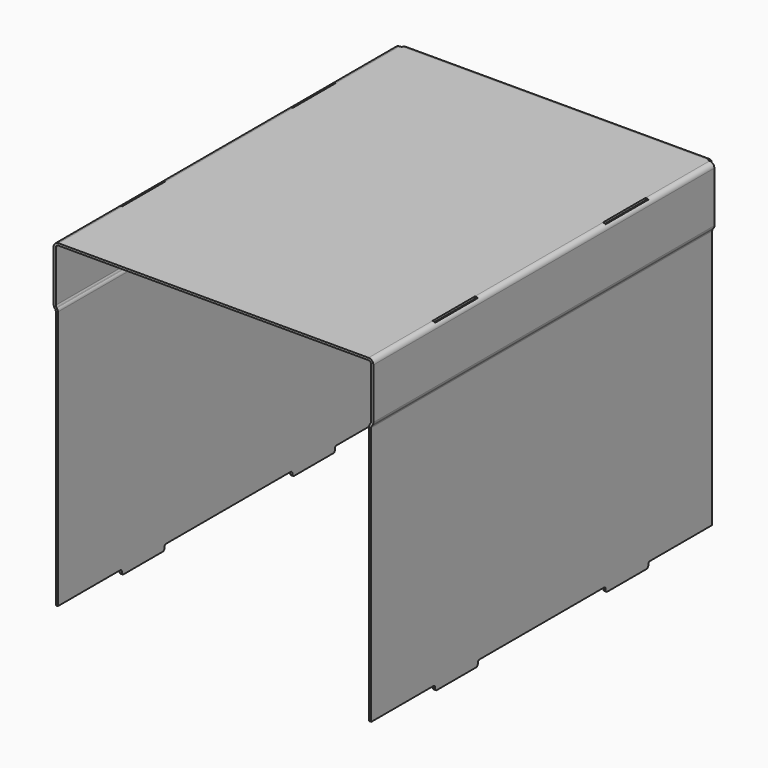
from build123d import *

# Parameters (mm, degrees)
F1_DEPTH      = 400
F2_W          = 150
F2_H          = 5
F2_W_2        = 75
F3_DEPTH      = 645
F4_W          = 2.5
F4_H          = 50
F5_DEPTH      = 21
F6_R          = 2
F8_DEPTH      = 143
F8_DEPTH_BACK = 143
F9_R          = 2


with BuildPart() as f1:
    # F0 (on Front) → F1 (new body)
    with BuildSketch(Plane.XZ):
        with BuildLine():
            ThreePointArc((150, 148), (148.6819805153, 151.1819805153), (145.5, 152.5))
            Line((145.5, 152.5), (0, 152.5))
            Line((0, 152.5), (-145.5, 152.5))
            ThreePointArc((-145.5, 152.5), (-148.6819805153, 151.1819805153), (-150, 148))
            Line((-150, 148), (-150, 100.5))
            ThreePointArc((-150, 100.5), (-149.7286167935, 98.960909355), (-148.947199994, 97.6074557564))
            Line((-148.947199994, 97.6074557564), (-148.5848888922, 97.1756701992))
            ThreePointArc((-148.5848888922, 97.1756701992), (-148.150768448, 96.4237515333), (-148, 95.5687011749))
            Line((-148, 95.5687011749), (-148, -152.5))
            Line((-148, -152.5), (-146, -152.5))
            Line((-146, -152.5), (-146, 95.5687011749))
            ThreePointArc((-146, 95.5687011749), (-146.2713832065, 97.1077918199), (-147.052800006, 98.4612454185))
            Line((-147.052800006, 98.4612454185), (-147.4151111078, 98.8930309758))
            ThreePointArc((-147.4151111078, 98.8930309758), (-147.849231552, 99.6449496417), (-148, 100.5))
            Line((-148, 100.5), (-148, 148))
            ThreePointArc((-148, 148), (-147.267766953, 149.767766953), (-145.5, 150.5))
            Line((-145.5, 150.5), (0, 150.5))
            Line((0, 150.5), (145.5, 150.5))
            ThreePointArc((145.5, 150.5), (147.267766953, 149.767766953), (148, 148))
            Line((148, 148), (148, 100.5))
            ThreePointArc((148, 100.5), (147.849231552, 99.6449496417), (147.4151111078, 98.8930309758))
            Line((147.4151111078, 98.8930309758), (147.052800006, 98.4612454185))
            ThreePointArc((147.052800006, 98.4612454185), (146.2713832065, 97.1077918199), (146, 95.5687011749))
            Line((146, 95.5687011749), (146, -152.5))
            Line((146, -152.5), (148, -152.5))
            Line((148, -152.5), (148, 95.5687011749))
            ThreePointArc((148, 95.5687011749), (148.150768448, 96.4237515333), (148.5848888922, 97.1756701992))
            Line((148.5848888922, 97.1756701992), (148.947199994, 97.6074557564))
            ThreePointArc((148.947199994, 97.6074557564), (149.7286167935, 98.960909355), (150, 100.5))
            Line((150, 100.5), (150, 148))
        make_face()
    extrude(amount=F1_DEPTH)

    # F2 (on face) → F3 (cut)
    with BuildSketch(Plane.YZ.offset(148)):
        with Locations((-200, -150)):
            Rectangle(F2_W, F2_H)
        with Locations((-37.5, -150)):
            Rectangle(F2_W_2, F2_H)
        with Locations((-362.5, -150)):
            Rectangle(F2_W_2, F2_H)
    extrude(amount=-F3_DEPTH, mode=Mode.SUBTRACT)

    # F4 (on face) → F5 (cut)
    with BuildSketch(Plane.XY.offset(152.5)):
        with Locations((146.75, -100)):
            Rectangle(F4_W, F4_H)
        with Locations((146.75, -300)):
            Rectangle(F4_W, F4_H)
        with Locations((-146.75, -100)):
            Rectangle(F4_W, F4_H)
        with Locations((-146.75, -300)):
            Rectangle(F4_W, F4_H)
    extrude(amount=-F5_DEPTH, mode=Mode.SUBTRACT)

    # F6
    f6_edges = [f1.edges().sort_by_distance(p)[0] for p in [
        (147, -125, -147.5),
        (147, -325, -147.5),
        (-147, -325, -147.5),
        (-147, -125, -147.5),
        (147, -75, -147.5),
        (147, -275, -147.5),
        (-147, -275, -147.5),
        (-147, -75, -147.5),
        (147, -325, -152.5),
        (147, -125, -152.5),
        (-147, -325, -152.5),
        (-147, -125, -152.5),
        (147, -275, -152.5),
        (147, -75, -152.5),
        (-147, -275, -152.5),
        (-147, -75, -152.5),
    ]]
    fillet(f6_edges, radius=F6_R)

    # F7 (on Right) → F8 (join, two sides)
    with BuildSketch(Plane.YZ) as f8_sk:
        with BuildLine():
            Line((1, 152.5), (0, 152.5))
            Line((0, 152.5), (0, 150.5))
            Line((0, 150.5), (1, 150.5))
            ThreePointArc((1, 150.5), (2.767766953, 149.767766953), (3.5, 148))
            Line((3.5, 148), (3.5, 147))
            Line((3.5, 147), (5.5, 147))
            Line((5.5, 147), (5.5, 148))
            ThreePointArc((5.5, 148), (4.1819805153, 151.1819805153), (1, 152.5))
        make_face()
    extrude(amount=F8_DEPTH)
    extrude(f8_sk.sketch, amount=-F8_DEPTH_BACK)

    # F9 (call 1 of 4: OpenCascade refuses the feature's edges together)
    f9_edges = [f1.edges().sort_by_distance(p)[0] for p in [
        (143, 0, 151.5),
    ]]
    fillet(f9_edges, radius=F9_R)

    # F9#2 (call 2 of 4)
    f9_2_edges = [f1.edges().sort_by_distance(p)[0] for p in [
        (-143, 0, 151.5),
    ]]
    fillet(f9_2_edges, radius=F9_R)

    # F9#3 (call 3 of 4)
    f9_3_edges = [f1.edges().sort_by_distance(p)[0] for p in [
        (-143, 4.5, 147),
    ]]
    fillet(f9_3_edges, radius=F9_R)

    # F9#4 (call 4 of 4)
    f9_4_edges = [f1.edges().sort_by_distance(p)[0] for p in [
        (143, 4.5, 147),
    ]]
    fillet(f9_4_edges, radius=F9_R)


solid = f1.part
